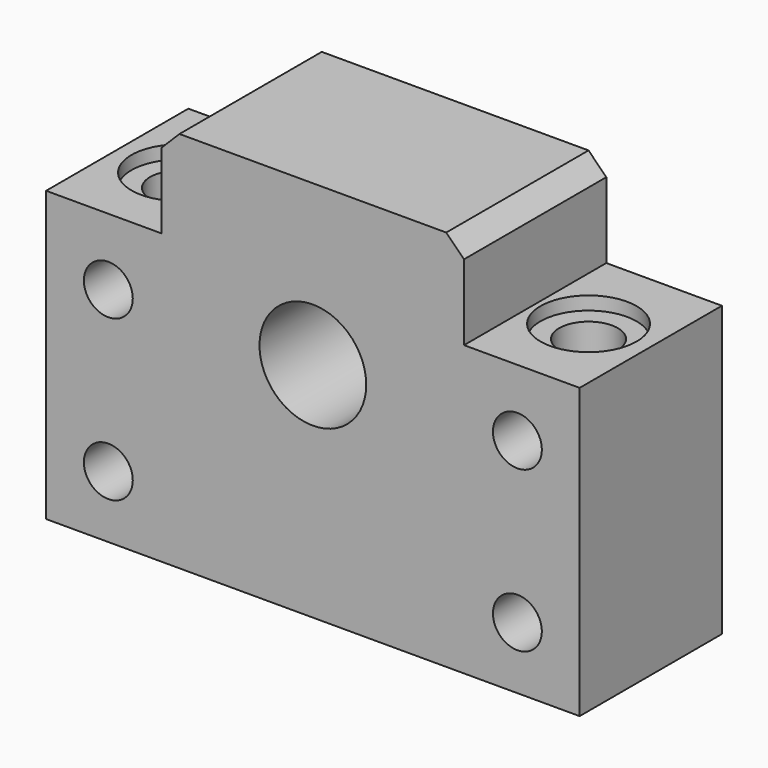
from build123d import *

# Parameters (mm, degrees)
F0_R           = 2.75
F0_R_2         = 6
F1_DEPTH       = 10
F3_D           = 6.6
F3_CBORE_D     = 10.8
F3_CBORE_DEPTH = 1.5


with BuildPart() as f1:
    # F0 (on Front) → F1 (new body, symmetric)
    with BuildSketch(Plane.XZ):
        Polygon((-30, 7.5), (-30, -25), (30, -25), (30, 7.5), (17, 7.5), (17, 16), (15, 18), (-15, 18), (-17, 16), (-17, 7.5), align=None)
        with Locations((-23, -18)):
            Circle(F0_R, mode=Mode.SUBTRACT)
        with Locations((23, -18)):
            Circle(F0_R, mode=Mode.SUBTRACT)
        with Locations((-23, 0)):
            Circle(F0_R, mode=Mode.SUBTRACT)
        Circle(F0_R_2, mode=Mode.SUBTRACT)
        with Locations((23, 0)):
            Circle(F0_R, mode=Mode.SUBTRACT)
    extrude(amount=F1_DEPTH, both=True)

    # F3 (through all)
    with Locations(Plane.XY.offset(7.5)):
        with Locations((-23, 0), (23, 0)):
            CounterBoreHole(F3_D / 2, F3_CBORE_D / 2, F3_CBORE_DEPTH)


solid = f1.part
